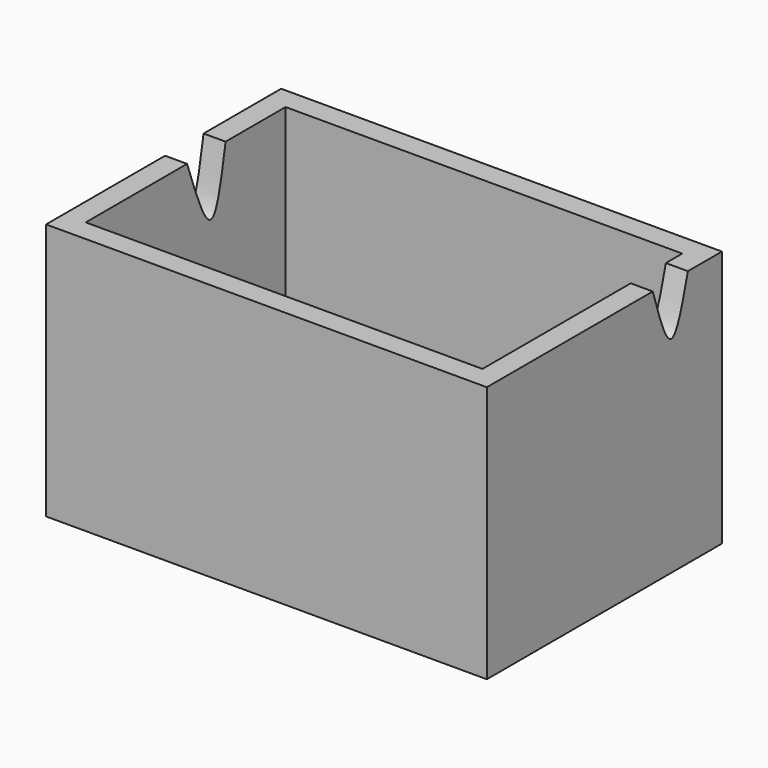
from build123d import *

# Parameters (mm, degrees)
F0_W     = 60
F0_H     = 40
F1_DEPTH = 35
F2_W     = 54
F2_H     = 34
F3_DEPTH = 32
F5_DEPTH = 5
F7_DEPTH = 5


with BuildPart() as f1:
    # F0 (on Top) → F1 (new body)
    with BuildSketch(Plane.XY):
        with Locations((-0.1621283591, -0.2469897495)):
            Rectangle(F0_W, F0_H)
        with Locations((-0.1621283591, -0.2469897495)):
            Rectangle(F0_W, F0_H)
    extrude(amount=F1_DEPTH)

    # F2 (on face) → F3 (cut)
    with BuildSketch(Plane.XY.offset(35)):
        with Locations((-0.1621283591, -0.2469897495)):
            Rectangle(F2_W, F2_H)
    extrude(amount=-F3_DEPTH, mode=Mode.SUBTRACT)

    # F4 (on face) → F5 (cut)
    with BuildSketch(Plane(origin=(-30.1621283591, 0, 0), x_dir=(0, -1, 0), z_dir=(-1, 0, 0))):
        with BuildLine():
            Line((0, 35), (-6.551516708, 35))
            add(Edge.make_bspline(
                [(-6.551516708, 35), (-5.8386453378, 30.8886812927), (-4.389754715, 22.5325438864), (-1.4787538932, 30.8001527505), (0, 35)],
                knots=[0, 0, 0, 0, 0.49201186, 1, 1, 1, 1], degree=3))
        make_face()
    extrude(amount=-F5_DEPTH, mode=Mode.SUBTRACT)

    # F6 (on face) → F7 (cut)
    with BuildSketch(Plane.YZ.offset(29.8378716409)):
        with BuildLine():
            Line((13.9640960842, 35), (7.9849697649, 35))
            add(Edge.make_bspline(
                [(7.9849697649, 35), (9.0646587158, 31.5158458238), (11.2144741419, 24.578395562), (13.0502773485, 31.5364484313), (13.9640960842, 35)],
                knots=[0, 0, 0, 0, 0.5022240225, 1, 1, 1, 1], degree=3))
        make_face()
    extrude(amount=-F7_DEPTH, mode=Mode.SUBTRACT)


solid = f1.part
